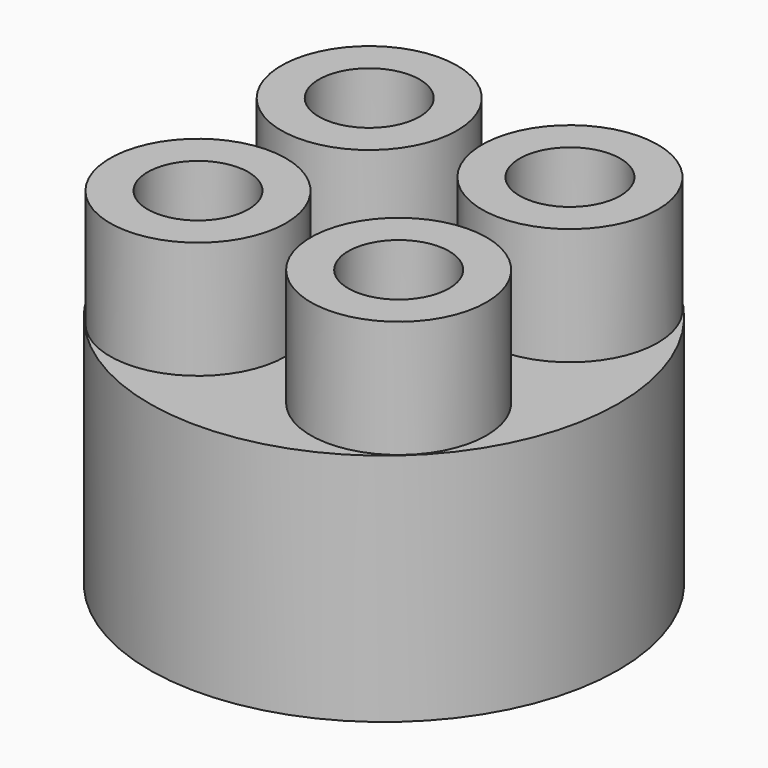
from build123d import *

# Parameters (mm, degrees)
F0_R     = 12.7
F1_DEPTH = 12.7
F3_R     = 4.7625
F3_R_2   = 2.7305
F4_DEPTH = 6.35


with BuildPart() as f1:
    # F0 (on Top) → F1 (new body)
    with BuildSketch(Plane.XY):
        Circle(F0_R)
    extrude(amount=F1_DEPTH)

    # F3 (on offset) → F4 (join)
    with BuildSketch(Plane.XY.offset(12.7)):
        with Locations((-5.399791, 5.753814)):
            Circle(F3_R)
        with Locations((-5.399791, 5.753814)):
            Circle(F3_R_2, mode=Mode.SUBTRACT)
        with Locations((-5.753814, -5.399791)):
            Circle(F3_R)
        with Locations((-5.753814, -5.399791)):
            Circle(F3_R_2, mode=Mode.SUBTRACT)
        with Locations((5.399791, -5.753814)):
            Circle(F3_R)
        with Locations((5.399791, -5.753814)):
            Circle(F3_R_2, mode=Mode.SUBTRACT)
        with Locations((5.753814, 5.399791)):
            Circle(F3_R)
        with Locations((5.753814, 5.399791)):
            Circle(F3_R_2, mode=Mode.SUBTRACT)
    extrude(amount=F4_DEPTH)


solid = f1.part
